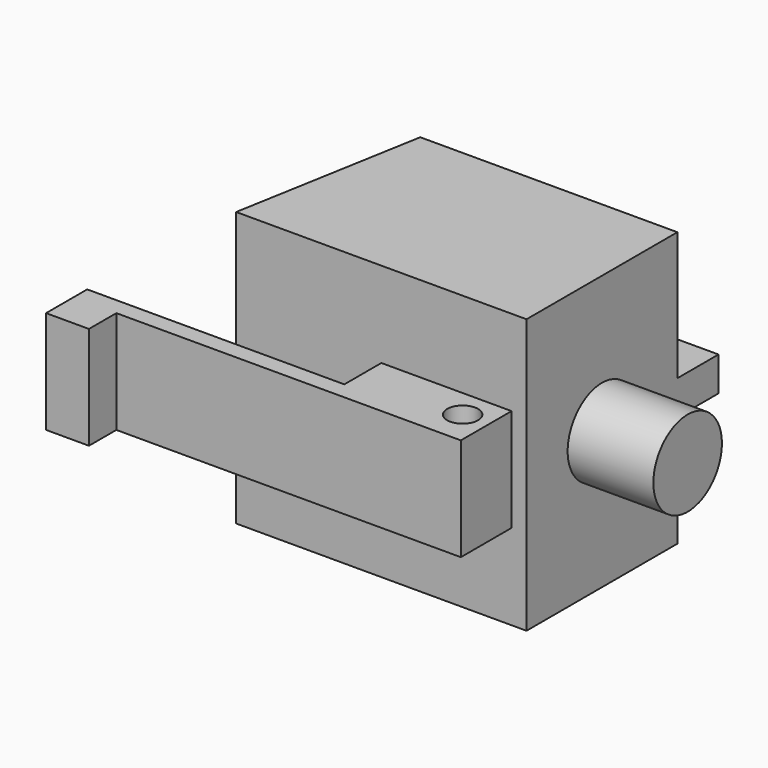
from build123d import *

# Parameters (mm, degrees)
F1_DEPTH  = 18
F2_R      = 2.5
F3_DEPTH  = 5
F4_W      = 13
F4_H      = 2
F5_DEPTH  = 3
F6_W      = 7.5974241367
F6_H      = 6
F7_DEPTH  = 3.7
F8_R      = 0.9
F9_DEPTH  = 10
F10_W     = 1
F10_H     = 6
F11_DEPTH = 15
F12_W     = 2.5
F12_H     = 6
F13_DEPTH = 2
F14_DEPTH = 1
F15_DEPTH = 1


with BuildPart() as f1:
    # F0 (on Top) → F1 (new body)
    with BuildSketch(Plane.XY):
        Polygon((-2.5732557046, 7.6509772142), (-17.5732557046, 7.6509772142), (-19.5128524924, -3.3490227858), (-2.5732557046, -3.3490227858), align=None)
    extrude(amount=F1_DEPTH)

    # F2 (on face) → F3 (join)
    with BuildSketch(Plane.YZ.offset(-2.5732557046)):
        with Locations((2.1509772142, 9)):
            Circle(F2_R)
    extrude(amount=F3_DEPTH)

    # F4 (on face) → F5 (join)
    with BuildSketch(Plane(origin=(0, 7.6509772142, 0), x_dir=(-1, 0, 0), z_dir=(0, 1, 0))):
        with Locations((9.0732557046, 8.5)):
            Rectangle(F4_W, F4_H)
    extrude(amount=F5_DEPTH)

    # F6 (on face) → F7 (join)
    with BuildSketch(Plane.XZ.offset(3.3490227858)):
        with Locations((-7.2443420301, 9)):
            Rectangle(F6_W, F6_H)
    extrude(amount=F7_DEPTH)

    # F8 (on face) → F9 (cut)
    with BuildSketch(Plane.XY.offset(12)):
        with Locations((-4.9705179408, -5.0118290819)):
            Circle(F8_R)
    extrude(amount=-F9_DEPTH, mode=Mode.SUBTRACT)

    # F10 (on face) → F11 (join)
    with BuildSketch(Plane(origin=(-11.0430540985, 0, 0), x_dir=(0, -1, 0), z_dir=(-1, 0, 0))):
        with Locations((6.5490227858, 9)):
            Rectangle(F10_W, F10_H)
    extrude(amount=F11_DEPTH)

    # F12 (on face) → F13 (join)
    with BuildSketch(Plane.XZ.offset(7.0490227858)):
        with Locations((-24.7930540985, 9)):
            Rectangle(F12_W, F12_H)
    extrude(amount=F13_DEPTH)

    # F14 (cut): a face of the model
    f14_faces = [f1.faces().sort_by_distance(p)[0] for p in [
        (-10.5679703972, 2.0396443295, 0),
    ]]
    extrude(f14_faces, amount=-F14_DEPTH, mode=Mode.SUBTRACT)

    # F15 (cut): a face of the model
    f15_faces = [f1.faces().sort_by_distance(p)[0] for p in [
        (-10.5679703972, 2.0396443295, 18),
    ]]
    extrude(f15_faces, amount=-F15_DEPTH, mode=Mode.SUBTRACT)


solid = f1.part
